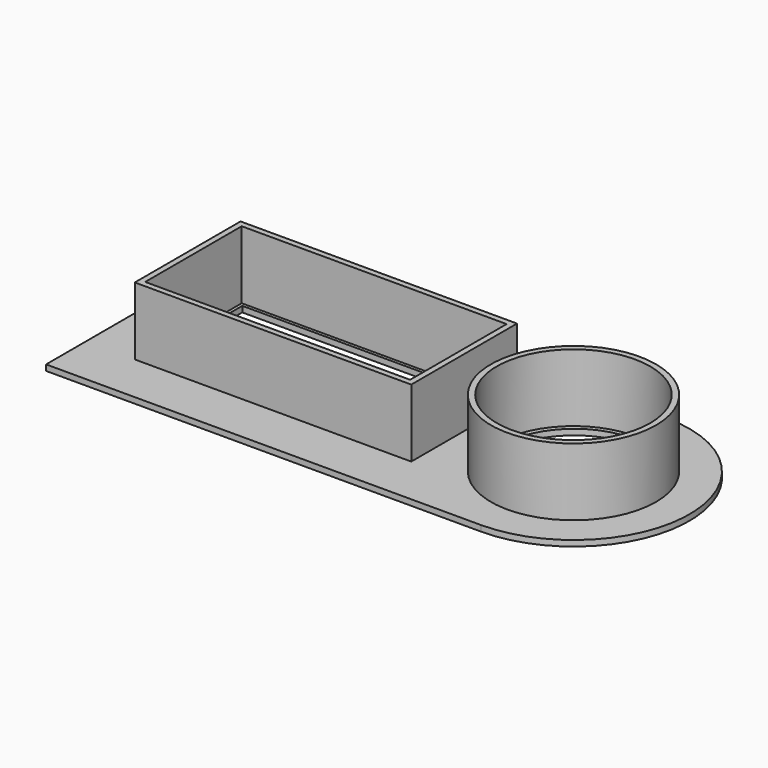
from build123d import *

# Parameters (mm, degrees)
F0_W     = 22.3
F0_H     = 9.86
F0_R     = 6.26
F1_DEPTH = 0.5
F3_R     = 7.125
F3_R_2   = 6.625
F4_DEPTH = 6.33
F5_W     = 23.86
F5_H     = 11.41
F5_W_2   = 22.86
F5_H_2   = 10.41
F6_DEPTH = 6.35


with BuildPart() as f1:
    # F0 (on Top) → F1 (new body)
    with BuildSketch(Plane.XY):
        with BuildLine():
            Line((-24.5, 10), (-24.5, -10))
            Line((-24.5, -10), (13.027523, -10))
            ThreePointArc((13.027523, -10), (23.027523, 0), (13.027523, 10))
            Line((13.027523, 10), (-24.5, 10))
        make_face()
        with Locations((-8.363491, 0)):
            Rectangle(F0_W, F0_H, mode=Mode.SUBTRACT)
        with Locations((13.068863, 0)):
            Circle(F0_R, mode=Mode.SUBTRACT)
    extrude(amount=F1_DEPTH)


with BuildPart() as f4:
    # F3 (on Top) → F4 (new body)
    with BuildSketch(Plane.XY):
        with Locations((13.015863, 0)):
            Circle(F3_R)
        with Locations((13.015863, 0)):
            Circle(F3_R_2, mode=Mode.SUBTRACT)
    extrude(amount=F4_DEPTH)


with BuildPart() as f6:
    # F5 (on Top) → F6 (new body)
    with BuildSketch(Plane.XY):
        with Locations((-8.350817, 0)):
            Rectangle(F5_W, F5_H)
        with Locations((-8.350817, 0)):
            Rectangle(F5_W_2, F5_H_2, mode=Mode.SUBTRACT)
    extrude(amount=F6_DEPTH)


solid = Compound([f1.part, f4.part, f6.part])
